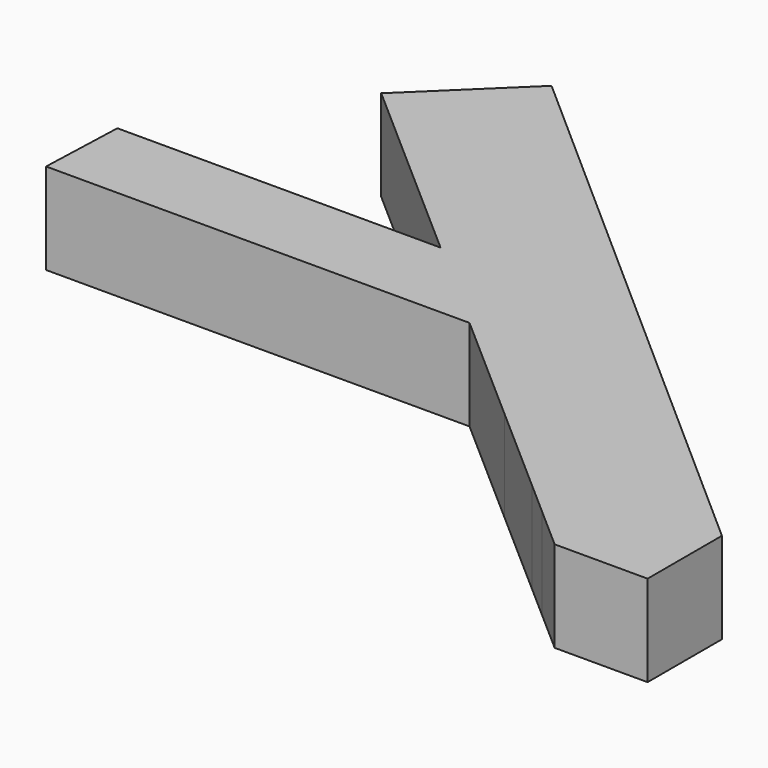
from build123d import *

# Parameters (mm, degrees)
F1_DEPTH = 14.986


with BuildPart() as f1:
    # F0 (on Top) → F1 (new body)
    with BuildSketch(Plane.XY):
        Polygon((57.917436, -24.592009), (-37.311969, 59.433942), (-53.098663, 44.156493), (-20.332476, 15.398937), (-4.358985, 1.37965), (14.88192, -15.507314), (30.111295, -28.87352), (35.677184, -33.758476), (42.639993, -39.869452), (57.917436, -39.869452), align=None)
        Polygon((-4.358985, 1.37965), (-20.332476, 15.398937), (-73.468593, 15.398937), (-73.97784, 1.37965), align=None)
    extrude(amount=F1_DEPTH)


solid = f1.part
